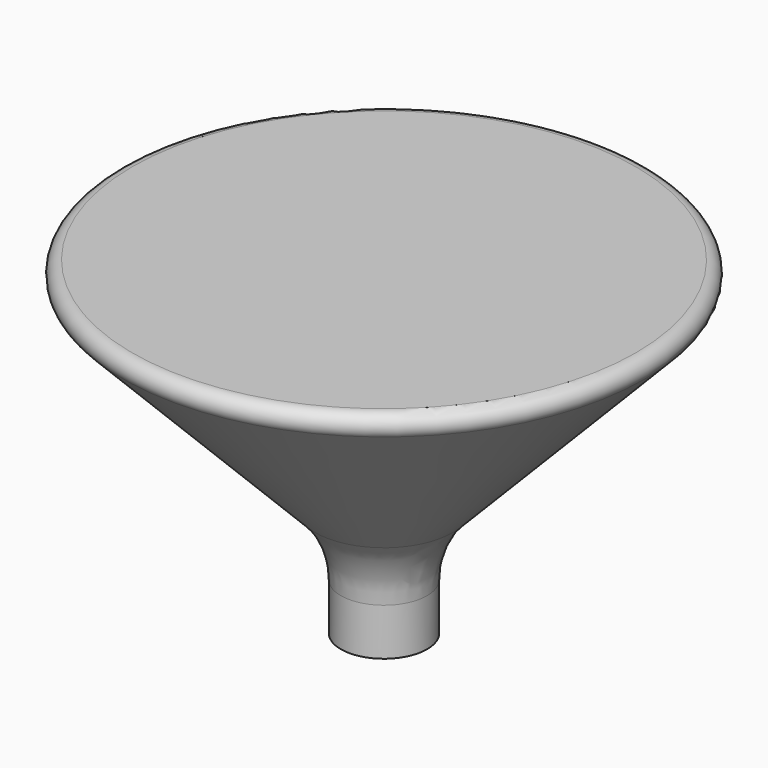
from build123d import *

# Parameters (mm, degrees)
F2_R = 0.713231
F3_R = 5.459817


with BuildPart() as f1:
    # F0 (on Front) → F1 (revolve)
    with BuildSketch(Plane.XZ):
        Polygon((0, 19.496445), (0, 0), (2.556912, 0), (2.556912, 5.007284), (16.619919, 19.496445), align=None)
    revolve(axis=Axis((0, 0, 9.748222), (0, 0, -1)))

    # F2
    f2_edges = [f1.edges().sort_by_distance(p)[0] for p in [
        (-16.619919, 0, 19.496445),
    ]]
    fillet(f2_edges, radius=F2_R)

    # F3
    f3_edges = [f1.edges().sort_by_distance(p)[0] for p in [
        (-2.556912, 0, 5.007284),
    ]]
    fillet(f3_edges, radius=F3_R)


solid = f1.part
